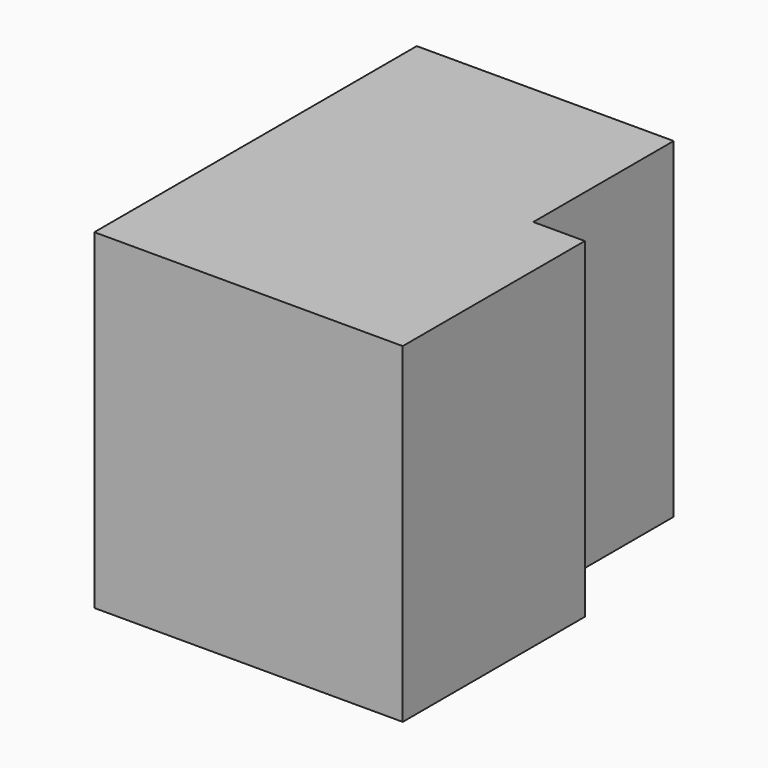
from build123d import *

# Parameters (mm, degrees)
F0_W     = 59.1693818569
F0_H     = 40.4018647969
F1_DEPTH = 38.1


with BuildPart() as f1:
    # F0 (on Top) → F1 (new body, symmetric)
    with BuildSketch(Plane.XY):
        with Locations((29.5846909285, 20.2009323984)):
            Rectangle(F0_W, F0_H)
        Polygon((59.1693818569, 0), (0, 0), (0, -52.4184517562), (71.0263326764, -52.4184517562), (71.0263326764, 0), align=None)
    extrude(amount=F1_DEPTH, both=True)


solid = f1.part
